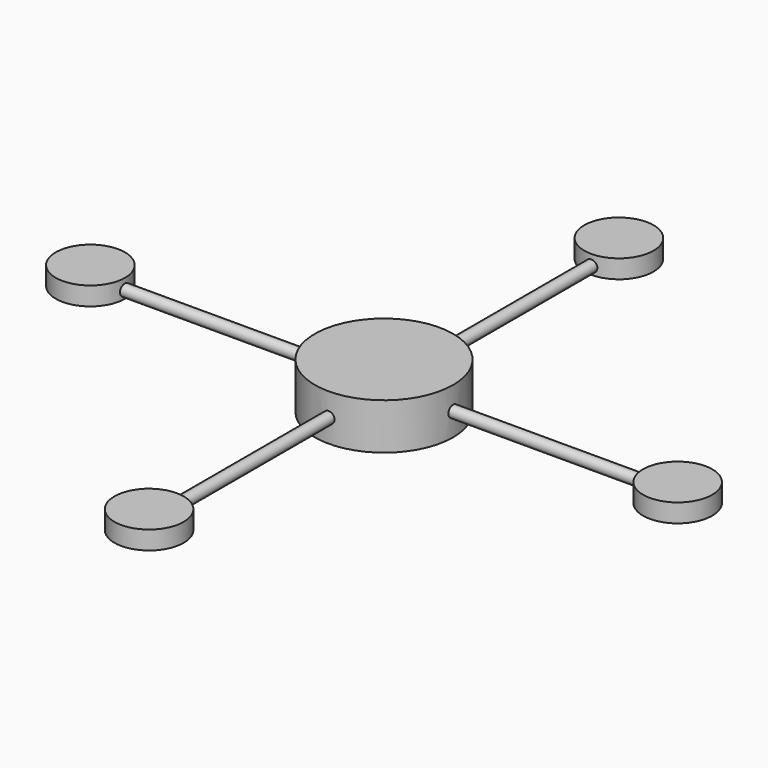
from build123d import *

# Parameters (mm, degrees)
F0_R          = 300
F1_DEPTH      = 200
F2_R          = 25
F3_DEPTH      = 1273
F3_DEPTH_BACK = 1273
F4_COUNT      = 2
F4_ANGLE      = 90
F5_W          = 20.2650688589
F5_H          = 12.1021300554
F6_DEPTH      = 25
F7_R          = 150
F7_W          = 20.2650688589
F7_H          = 25
F8_DEPTH      = 40
F8_DEPTH_BACK = 40
F9_COUNT      = 4


with BuildPart() as f1:
    # F0 (on Top) → F1 (new body)
    with BuildSketch(Plane.XY):
        Circle(F0_R)
    extrude(amount=F1_DEPTH)

    # F2 (on Front) → F3 (join, two sides)
    with BuildSketch(Plane.XZ) as f3_sk:
        with Locations((0, 100)):
            Circle(F2_R)
    extrude(amount=F3_DEPTH)
    extrude(f3_sk.sketch, amount=-F3_DEPTH_BACK)

    # F4: F1 ×2 about axis
    f4_axis = Axis((0, 0, 200), (0, 0, 1))


with BuildPart() as f1_1:
    add(f1.part)
    for i in range(1, F4_COUNT):
        add(f1.part.rotate(f4_axis, i * F4_ANGLE / (F4_COUNT - 1)))

    # F5 (on face) → F6 (join)
    with BuildSketch(Plane.XZ.offset(1273)):
        with Locations((0, 100)):
            Rectangle(F5_W, F5_H)
    extrude(amount=F6_DEPTH)

    # F7 (on face) → F8 (join, two sides)
    with BuildSketch(Plane.XY.offset(106.0510650277)) as f8_sk:
        with Locations((0, -1273)):
            Circle(F7_R)
        with Locations((0, -1285.5)):
            Rectangle(F7_W, F7_H, mode=Mode.SUBTRACT)
        with Locations((0, -1285.5)):
            Rectangle(F7_W, F7_H)
    extrude(amount=-F8_DEPTH)
    extrude(f8_sk.sketch, amount=F8_DEPTH_BACK)

    # F9: F1 ×4 about axis
    f9_axis = Axis((0, 0, 200), (0, 0, -1))


with BuildPart() as f1_2:
    add(f1_1.part)
    for i in range(1, F9_COUNT):
        add(f1_1.part.rotate(f9_axis, i * 360 / F9_COUNT))


solid = f1_2.part
